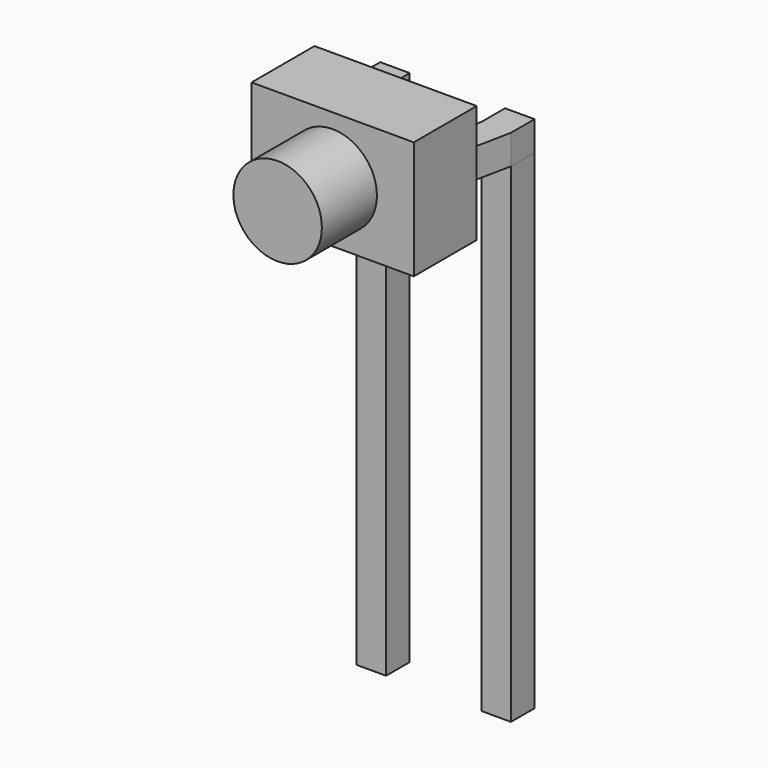
from build123d import *

# Parameters (mm, degrees)
SKETCH_W       = 0.6
SKETCH_H       = 0.6
PAD_DEPTH      = 7.95
PAD_DEPTH_BACK = 2
PAD001_DEPTH   = 0.6
SKETCH002_W    = 2.54
SKETCH002_H    = 0.6
PAD002_DEPTH   = 1
SKETCH004_W    = 3.3
SKETCH004_H    = 2.4
PAD003_DEPTH   = 1.6
SKETCH006_R    = 0.9
PAD004_DEPTH   = 1.4


with BuildPart() as pad:
    # Sketch → Pad (new body, two sides)
    with BuildSketch(Plane.XY) as pad_sk:
        Rectangle(SKETCH_W, SKETCH_H)
        with Locations((2.54, 0)):
            Rectangle(SKETCH_W, SKETCH_H)
    extrude(amount=PAD_DEPTH)
    extrude(pad_sk.sketch, amount=-PAD_DEPTH_BACK)


with BuildPart() as pad001:
    # Sketch001 → Pad001 (new body)
    with BuildSketch(Plane.XY.offset(7.95)):
        Polygon((0.3, 0.3), (-0.3, 0.3), (-0.3, -0.3), (0, -1.77), (0.6, -1.77), (0.3, -0.3), align=None)
        Polygon((2.84, 0.3), (2.24, 0.3), (2.24, -0.3), (1.94, -1.77), (2.54, -1.77), (2.84, -0.3), align=None)
    extrude(amount=PAD001_DEPTH)


with BuildPart() as pad002:
    # Sketch002 → Pad002 (new body)
    with BuildSketch(Plane.XZ.offset(1.77)):
        with Locations((1.27, 8.25)):
            Rectangle(SKETCH002_W, SKETCH002_H)
    extrude(amount=PAD002_DEPTH)


with BuildPart() as revolution001:
    # Sketch005 → Revolution001 (revolve)
    with BuildSketch(Plane.YZ.offset(1.27)):
        Polygon((-2.47, 8.25), (-2.97, 8.25), (-2.97, 8.75), align=None)
    revolve(axis=Axis((1.27, -3.977201, 8.25), (0, -1, 0)))


with BuildPart() as pad004:
    # Sketch004 → Pad003 (new body)
    with BuildSketch(Plane.XZ.offset(1.27)):
        with Locations((1.27, 8.25)):
            Rectangle(SKETCH004_W, SKETCH004_H)
    extrude(amount=PAD003_DEPTH)

    # Sketch006 → Pad004 (new body)
    with BuildSketch(Plane.XZ.offset(2.87)):
        with Locations((1.27, 8.25)):
            Circle(SKETCH006_R)
    extrude(amount=PAD004_DEPTH)


solid = Compound([pad.part, pad001.part, pad002.part, revolution001.part, pad004.part])
